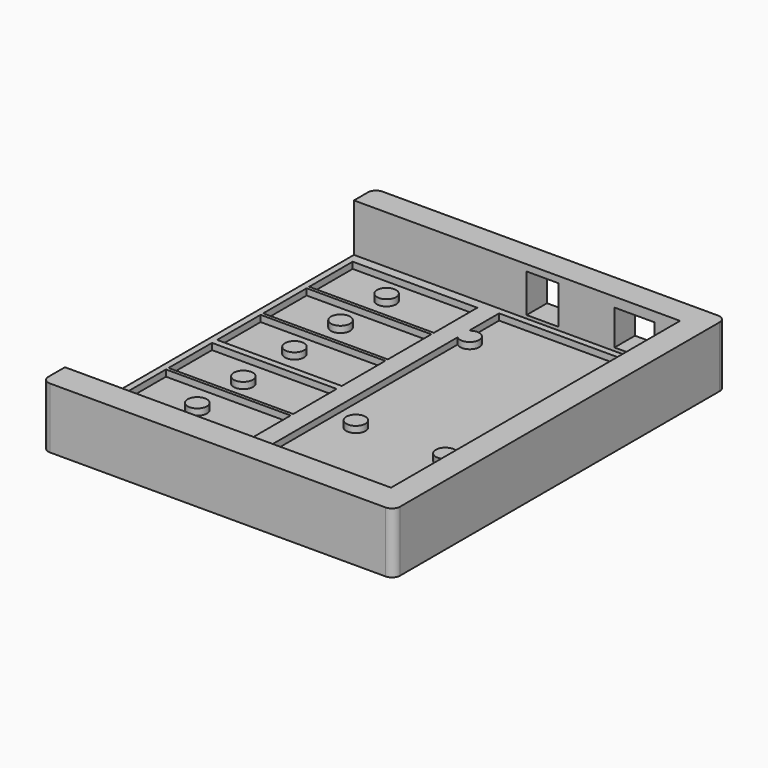
from build123d import *

# Parameters (mm, degrees)
BOX009_W          = 20
BOX009_H          = 10
BOX009_DEPTH      = 12
BOX008_W          = 20
BOX008_H          = 12.5
BOX008_DEPTH      = 11
BOX011_W          = 102
BOX011_H          = 113
BOX011_DEPTH      = 21
BOX010_W          = 110
BOX010_H          = 130
BOX010_DEPTH      = 19
CYLINDER001_R     = 3
CYLINDER001_DEPTH = 20
BOX006_W          = 39
BOX006_H          = 17
BOX006_DEPTH      = 10
CYLINDER002_R     = 3
CYLINDER002_DEPTH = 20
BOX005_W          = 39
BOX005_H          = 17
BOX005_DEPTH      = 10
CYLINDER003_R     = 3
CYLINDER003_DEPTH = 20
BOX004_W          = 39
BOX004_H          = 17
BOX004_DEPTH      = 10
CYLINDER005_R     = 3
CYLINDER005_DEPTH = 20
BOX002_W          = 39
BOX002_H          = 17
BOX002_DEPTH      = 10
CYLINDER004_R     = 3
CYLINDER004_DEPTH = 20
BOX003_W          = 39
BOX003_H          = 17
BOX003_DEPTH      = 10
CYLINDER011_R     = 3
CYLINDER011_DEPTH = 20
CYLINDER010_R     = 3
CYLINDER010_DEPTH = 20
CYLINDER009_R     = 3
CYLINDER009_DEPTH = 20
CYLINDER008_R     = 3
CYLINDER008_DEPTH = 20
CYLINDER007_R     = 3
CYLINDER007_DEPTH = 20
CYLINDER006_R     = 3
CYLINDER006_DEPTH = 20
BOX007_W          = 102
BOX007_H          = 54
BOX007_DEPTH      = 10
CYLINDER_R        = 3
CYLINDER_DEPTH    = 20
BOX001_W          = 39
BOX001_H          = 17
BOX001_DEPTH      = 10
BOX_W             = 110
BOX_H             = 130
BOX_DEPTH         = 4
FILLET_R          = 2.5


with BuildPart() as obj1:
    # Box009 → Box009 (new body)
    with BuildSketch(Plane(origin=(62, 112, 3), x_dir=(0, 1, 0), z_dir=(0, 0, 1))):
        with Locations((10, 5)):
            Rectangle(BOX009_W, BOX009_H)
    extrude(amount=BOX009_DEPTH)


with BuildPart() as usbport:
    # Box008 → Box008 (new body)
    with BuildSketch(Plane(origin=(92, 112, 3), x_dir=(0, 1, 0), z_dir=(0, 0, 1))):
        with Locations((10, 6.25)):
            Rectangle(BOX008_W, BOX008_H)
    extrude(amount=BOX008_DEPTH)


with BuildPart() as obj2:
    # Box011 → Box011 (new body)
    with BuildSketch(Plane(origin=(-2, 4, -2), x_dir=(1, 0, 0), z_dir=(0, 0, 1))):
        with Locations((51, 56.5)):
            Rectangle(BOX011_W, BOX011_H)
    extrude(amount=BOX011_DEPTH)


with BuildPart() as obj3:
    # Box010 → Box010 (new body)
    with BuildSketch(Plane(origin=(-2, -5, -2), x_dir=(1, 0, 0), z_dir=(0, 0, 1))):
        with Locations((55, 65)):
            Rectangle(BOX010_W, BOX010_H)
    extrude(amount=BOX010_DEPTH)

    # Cut019: cut obj2
    add(obj2.part, mode=Mode.SUBTRACT)

    # Cut020: cut Usbport
    add(usbport.part, mode=Mode.SUBTRACT)

    # Cut021: cut obj1
    add(obj1.part, mode=Mode.SUBTRACT)


with BuildPart() as zylinder001:
    # Cylinder001 → Cylinder001 (new body)
    with BuildSketch(Plane(origin=(17, 32, 0), x_dir=(1, 0, 0), z_dir=(0, 0, 1))):
        Circle(CYLINDER001_R)
    extrude(amount=CYLINDER001_DEPTH)


with BuildPart() as cut001:
    # Box006 → Box006 (new body)
    with BuildSketch(Plane(origin=(0, 24, 0), x_dir=(1, 0, 0), z_dir=(0, 0, 1))):
        with Locations((19.5, 8.5)):
            Rectangle(BOX006_W, BOX006_H)
    extrude(amount=BOX006_DEPTH)

    # Cut001: cut Zylinder001
    add(zylinder001.part, mode=Mode.SUBTRACT)


with BuildPart() as zylinder002:
    # Cylinder002 → Cylinder002 (new body)
    with BuildSketch(Plane(origin=(17, 50, 0), x_dir=(1, 0, 0), z_dir=(0, 0, 1))):
        Circle(CYLINDER002_R)
    extrude(amount=CYLINDER002_DEPTH)


with BuildPart() as cut002:
    # Box005 → Box005 (new body)
    with BuildSketch(Plane(origin=(0, 42, 0), x_dir=(1, 0, 0), z_dir=(0, 0, 1))):
        with Locations((19.5, 8.5)):
            Rectangle(BOX005_W, BOX005_H)
    extrude(amount=BOX005_DEPTH)

    # Cut002: cut Zylinder002
    add(zylinder002.part, mode=Mode.SUBTRACT)


with BuildPart() as zylinder003:
    # Cylinder003 → Cylinder003 (new body)
    with BuildSketch(Plane(origin=(17, 106, 0), x_dir=(1, 0, 0), z_dir=(0, 0, 1))):
        Circle(CYLINDER003_R)
    extrude(amount=CYLINDER003_DEPTH)


with BuildPart() as cut003:
    # Box004 → Box004 (new body)
    with BuildSketch(Plane(origin=(0, 97, 0), x_dir=(1, 0, 0), z_dir=(0, 0, 1))):
        with Locations((19.5, 8.5)):
            Rectangle(BOX004_W, BOX004_H)
    extrude(amount=BOX004_DEPTH)

    # Cut003: cut Zylinder003
    add(zylinder003.part, mode=Mode.SUBTRACT)


with BuildPart() as zylinder005:
    # Cylinder005 → Cylinder005 (new body)
    with BuildSketch(Plane(origin=(17, 70, 0), x_dir=(1, 0, 0), z_dir=(0, 0, 1))):
        Circle(CYLINDER005_R)
    extrude(amount=CYLINDER005_DEPTH)


with BuildPart() as cut005:
    # Box002 → Box002 (new body)
    with BuildSketch(Plane(origin=(0, 61, 0), x_dir=(1, 0, 0), z_dir=(0, 0, 1))):
        with Locations((19.5, 8.5)):
            Rectangle(BOX002_W, BOX002_H)
    extrude(amount=BOX002_DEPTH)

    # Cut005: cut Zylinder005
    add(zylinder005.part, mode=Mode.SUBTRACT)


with BuildPart() as zylinder004:
    # Cylinder004 → Cylinder004 (new body)
    with BuildSketch(Plane(origin=(17, 88, 0), x_dir=(1, 0, 0), z_dir=(0, 0, 1))):
        Circle(CYLINDER004_R)
    extrude(amount=CYLINDER004_DEPTH)


with BuildPart() as cut004:
    # Box003 → Box003 (new body)
    with BuildSketch(Plane(origin=(0, 79, 0), x_dir=(1, 0, 0), z_dir=(0, 0, 1))):
        with Locations((19.5, 8.5)):
            Rectangle(BOX003_W, BOX003_H)
    extrude(amount=BOX003_DEPTH)

    # Cut004: cut Zylinder004
    add(zylinder004.part, mode=Mode.SUBTRACT)


with BuildPart() as zylinder011:
    # Cylinder011 → Cylinder011 (new body)
    with BuildSketch(Plane(origin=(81, 49, 0), x_dir=(1, 0, 0), z_dir=(0, 0, 1))):
        Circle(CYLINDER011_R)
    extrude(amount=CYLINDER011_DEPTH)


with BuildPart() as zylinder010:
    # Cylinder010 → Cylinder010 (new body)
    with BuildSketch(Plane(origin=(53, 49, 0), x_dir=(1, 0, 0), z_dir=(0, 0, 1))):
        Circle(CYLINDER010_R)
    extrude(amount=CYLINDER010_DEPTH)


with BuildPart() as zylinder009:
    # Cylinder009 → Cylinder009 (new body)
    with BuildSketch(Plane(origin=(47, 19, 0), x_dir=(1, 0, 0), z_dir=(0, 0, 1))):
        Circle(CYLINDER009_R)
    extrude(amount=CYLINDER009_DEPTH)


with BuildPart() as zylinder008:
    # Cylinder008 → Cylinder008 (new body)
    with BuildSketch(Plane(origin=(97, 25, 0), x_dir=(1, 0, 0), z_dir=(0, 0, 1))):
        Circle(CYLINDER008_R)
    extrude(amount=CYLINDER008_DEPTH)


with BuildPart() as zylinder007:
    # Cylinder007 → Cylinder007 (new body)
    with BuildSketch(Plane(origin=(47, 101, 0), x_dir=(1, 0, 0), z_dir=(0, 0, 1))):
        Circle(CYLINDER007_R)
    extrude(amount=CYLINDER007_DEPTH)


with BuildPart() as zylinder006:
    # Cylinder006 → Cylinder006 (new body)
    with BuildSketch(Plane(origin=(97, 100, 0), x_dir=(1, 0, 0), z_dir=(0, 0, 1))):
        Circle(CYLINDER006_R)
    extrude(amount=CYLINDER006_DEPTH)


with BuildPart() as cut011:
    # Box007 → Box007 (new body)
    with BuildSketch(Plane(origin=(45, 115, 0), x_dir=(0, -1, 0), z_dir=(0, 0, 1))):
        with Locations((51, 27)):
            Rectangle(BOX007_W, BOX007_H)
    extrude(amount=BOX007_DEPTH)

    # Cut006: cut Zylinder006
    add(zylinder006.part, mode=Mode.SUBTRACT)

    # Cut007: cut Zylinder007
    add(zylinder007.part, mode=Mode.SUBTRACT)

    # Cut008: cut Zylinder008
    add(zylinder008.part, mode=Mode.SUBTRACT)

    # Cut009: cut Zylinder009
    add(zylinder009.part, mode=Mode.SUBTRACT)

    # Cut010: cut Zylinder010
    add(zylinder010.part, mode=Mode.SUBTRACT)

    # Cut011: cut Zylinder011
    add(zylinder011.part, mode=Mode.SUBTRACT)


with BuildPart() as zylinder:
    # Cylinder → Cylinder (new body)
    with BuildSketch(Plane(origin=(17, 14, 0), x_dir=(1, 0, 0), z_dir=(0, 0, 1))):
        Circle(CYLINDER_R)
    extrude(amount=CYLINDER_DEPTH)


with BuildPart() as cut:
    # Box001 → Box001 (new body)
    with BuildSketch(Plane(origin=(0, 6, 0), x_dir=(1, 0, 0), z_dir=(0, 0, 1))):
        with Locations((19.5, 8.5)):
            Rectangle(BOX001_W, BOX001_H)
    extrude(amount=BOX001_DEPTH)

    # Cut: cut Zylinder
    add(zylinder.part, mode=Mode.SUBTRACT)


with BuildPart() as base001:
    # Box → Box (new body)
    with BuildSketch(Plane(origin=(-2, -5, -2), x_dir=(1, 0, 0), z_dir=(0, 0, 1))):
        with Locations((55, 65)):
            Rectangle(BOX_W, BOX_H)
    extrude(amount=BOX_DEPTH)

    # Cut012: cut Cut
    add(cut.part, mode=Mode.SUBTRACT)

    # Cut013: cut Cut011
    add(cut011.part, mode=Mode.SUBTRACT)

    # Cut014: cut Cut004
    add(cut004.part, mode=Mode.SUBTRACT)

    # Cut015: cut Cut005
    add(cut005.part, mode=Mode.SUBTRACT)

    # Cut016: cut Cut003
    add(cut003.part, mode=Mode.SUBTRACT)

    # Cut017: cut Cut002
    add(cut002.part, mode=Mode.SUBTRACT)

    # Cut018: cut Cut001
    add(cut001.part, mode=Mode.SUBTRACT)

    # Fusion: union obj3
    add(obj3.part)

    # Fillet
    fillet_edges = [base001.edges().sort_by_distance(p)[0] for p in [
        (-2, -5, 9.5),
        (108, -5, 9.5),
        (108, 125, 9.5),
        (-2, 125, 9.5),
    ]]
    fillet(fillet_edges, radius=FILLET_R)


solid = base001.part
